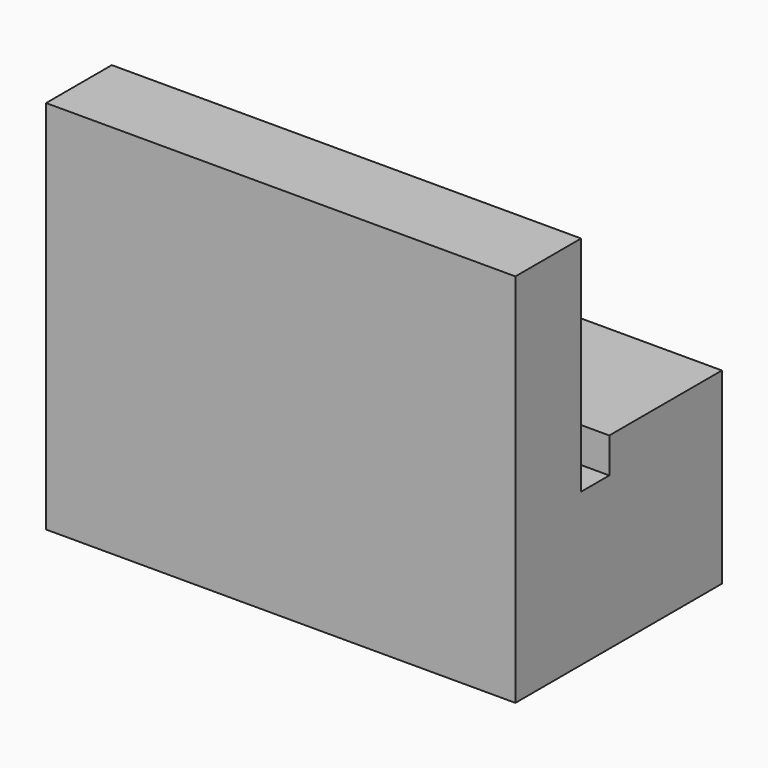
from build123d import *

# Parameters (mm, degrees)
F1_DEPTH = 2000


with BuildPart() as f1:
    # F0 (on Right) → F1 (new body)
    with BuildSketch(Plane.YZ):
        Polygon((298.377013, 1549.28427), (-51.622987, 1549.28427), (-51.622987, -50.71573), (1048.377013, -50.71573), (1048.377013, 749.28427), (448.377013, 749.28427), (448.377013, 599.28427), (298.377013, 599.28427), (298.377013, 749.28427), align=None)
    extrude(amount=F1_DEPTH)


solid = f1.part
